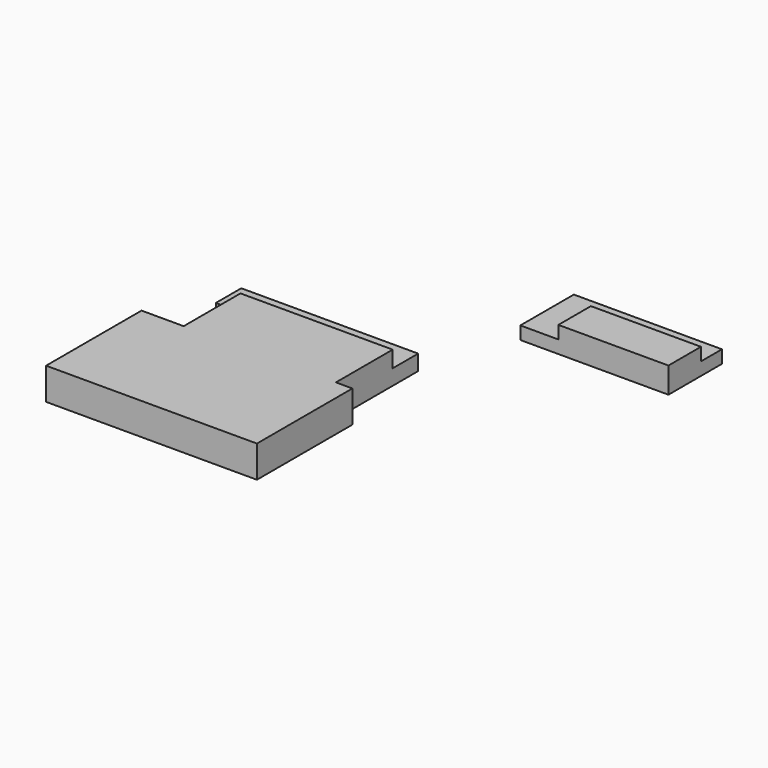
from build123d import *

# Parameters (mm, degrees)
F1_W     = 1070
F1_H     = 395
F2_DEPTH = 250
F4_DEPTH = 125
F7_DEPTH = 310
F8_DEPTH = 150


with BuildPart() as f2:
    # F1 (on face) → F2 (new body)
    with BuildSketch(Plane.XY):
        with Locations((3081.51358, 219.649576)):
            Rectangle(F1_W, F1_H)
    extrude(amount=F2_DEPTH)

    # F3 (on face) → F4 (join)
    with BuildSketch(Plane.XY):
        Polygon((2176.51358, 672.149576), (2176.51358, 22.149576), (2546.51358, 22.149576), (2546.51358, 417.149576), (3616.51358, 417.149576), (3616.51358, 672.149576), align=None)
    extrude(amount=F4_DEPTH)


with BuildPart() as f7:
    # F5 (on face) → F7 (new body)
    with BuildSketch(Plane.XY):
        Polygon((2050, -1861.448851), (1890, -1861.448851), (1890, -1171.448851), (410, -1171.448851), (410, -1861.448851), (0, -1861.448851), (0, -3021.448851), (2050, -3021.448851), align=None)
    extrude(amount=F7_DEPTH)

    # F6 (on face) → F8 (join)
    with BuildSketch(Plane.XY):
        Polygon((1890, -1171.448851), (1890, -861.448851), (170, -861.448851), (170, -1171.448851), (410, -1171.448851), align=None)
    extrude(amount=F8_DEPTH)


solid = Compound([f2.part, f7.part])
